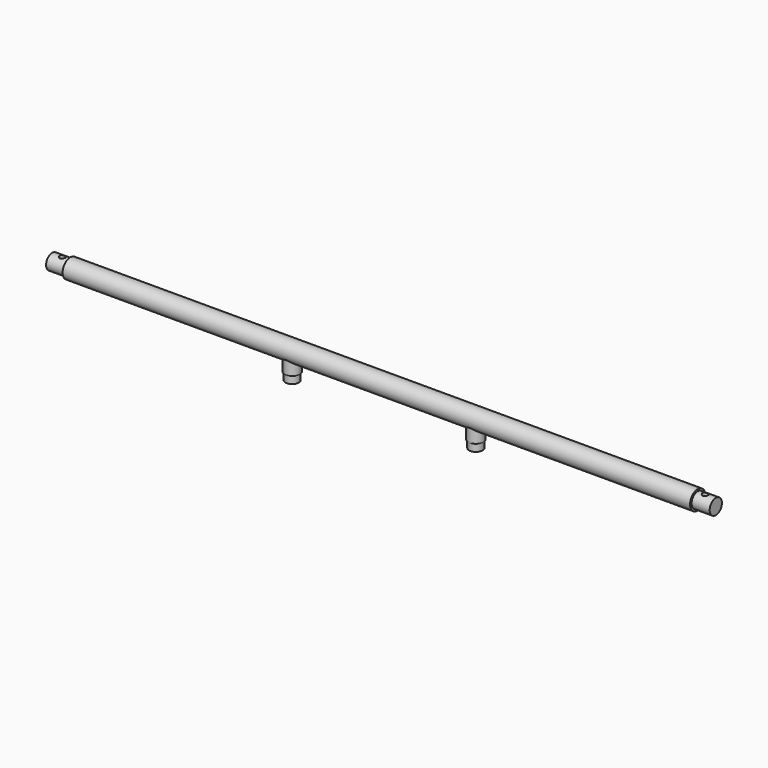
from build123d import *

# Parameters (mm, degrees)
F2_R     = 2.38125
F3_DEPTH = 25.4
F4_R     = 6.35
F5_DEPTH = 15.621
F6_R     = 5.5626
F7_DEPTH = 6.35


with BuildPart() as f1:
    # F0 (on Front) → F1 (revolve)
    with BuildSketch(Plane.XZ):
        Polygon((-535.686, 0), (14.986, 0), (14.986, 6.35), (0, 6.35), (0, 7.9375), (-520.7, 7.9375), (-520.7, 6.35), (-535.686, 6.35), align=None)
    revolve(axis=Axis((-260.35, 0, 0), (1, 0, 0)))

    # F2 (on Top) → F3 (cut, symmetric)
    with BuildSketch(Plane.XY):
        with Locations((6.35, 0)):
            Circle(F2_R)
        with Locations((-527.05, 0)):
            Circle(F2_R)
    extrude(amount=F3_DEPTH, both=True, mode=Mode.SUBTRACT)

    # F4 (on Top) → F5 (join)
    with BuildSketch(Plane.XY):
        with Locations((-336.55, 0)):
            Circle(F4_R)
        with Locations((-184.15, 0)):
            Circle(F4_R)
    extrude(amount=-F5_DEPTH)

    # F6 (on face) → F7 (join)
    with BuildSketch(Plane(origin=(0, 0, -15.621), x_dir=(1, 0, 0), z_dir=(0, 0, -1))):
        with Locations((-336.55, 0)):
            Circle(F6_R)
        with Locations((-184.15, 0)):
            Circle(F6_R)
    extrude(amount=F7_DEPTH)


solid = f1.part
